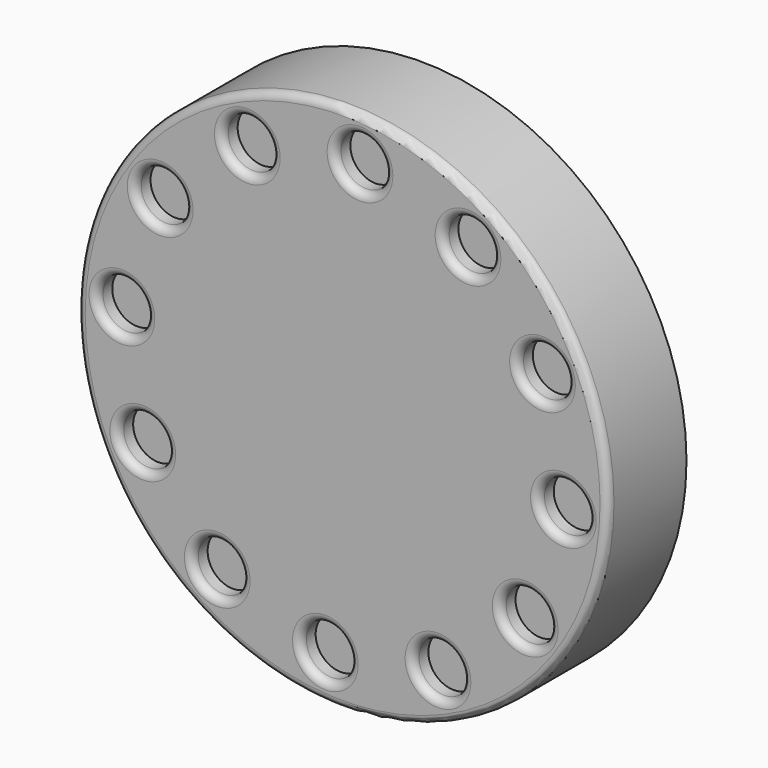
from build123d import *

# Parameters (mm, degrees)
F0_R     = 68.488221
F1_DEPTH = 25.4
F2_R     = 6.48814
F3_DEPTH = 5
F4_R     = 2


with BuildPart() as f1:
    # F0 (on Front) → F1 (new body)
    with BuildSketch(Plane.XZ):
        with Locations((-4.480027, 0)):
            Circle(F0_R)
    extrude(amount=F1_DEPTH)

    # F2 (on face) → F3 (cut)
    with BuildSketch(Plane.XZ.offset(25.4)):
        with Locations((0, 57.013616)):
            Circle(F2_R)
        with Locations((-29.107018, 51.615253)):
            Circle(F2_R)
        with Locations((-51.615253, 32.386625)):
            Circle(F2_R)
        with Locations((-61.493643, 4.480027)):
            Circle(F2_R)
        with Locations((-56.09528, -24.626991)):
            Circle(F2_R)
        with Locations((-36.866652, -47.135226)):
            Circle(F2_R)
        with Locations((-8.960054, -57.013616)):
            Circle(F2_R)
        with Locations((20.146964, -51.615253)):
            Circle(F2_R)
        with Locations((42.655199, -32.386625)):
            Circle(F2_R)
        with Locations((52.533589, -4.480027)):
            Circle(F2_R)
        with Locations((47.135226, 24.626991)):
            Circle(F2_R)
        with Locations((27.906598, 47.135226)):
            Circle(F2_R)
    extrude(amount=-F3_DEPTH, mode=Mode.SUBTRACT)

    # F4
    f4_edges = [f1.edges().sort_by_distance(p)[0] for p in [
        (-72.968248, -25.4, 0),
        (-43.354793, -25.4, -47.135226),
        (-15.448195, -25.4, -57.013616),
        (-62.583421, -25.4, -24.626991),
        (13.658823, -25.4, -51.615253),
        (36.167059, -25.4, -32.386625),
        (46.045449, -25.4, -4.480027),
        (-67.981783, -25.4, 4.480027),
        (-58.103394, -25.4, 32.386625),
        (-35.595158, -25.4, 51.615253),
        (40.647086, -25.4, 24.626991),
        (-6.48814, -25.4, 57.013616),
        (21.418458, -25.4, 47.135226),
    ]]
    fillet(f4_edges, radius=F4_R)


solid = f1.part
